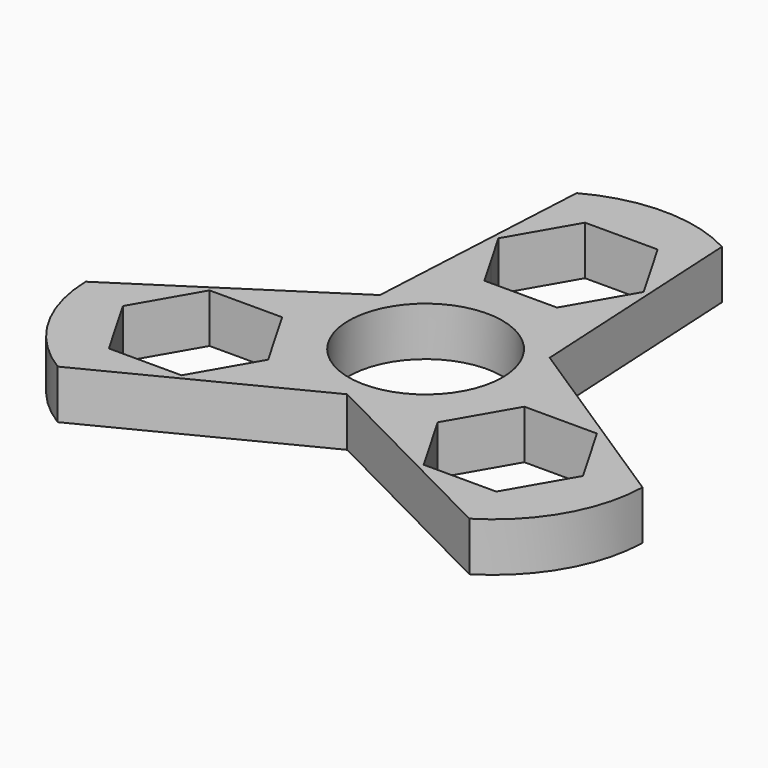
from build123d import *

# Parameters (mm, degrees)
F0_R     = 11
F1_DEPTH = 7


with BuildPart() as f1:
    # F0 (on Top) → F1 (new body)
    with BuildSketch(Plane.XY):
        with BuildLine():
            ThreePointArc((12.146510326, 6.9614859693), (13.5286944042, 3.6020032923), (14, 0))
            ThreePointArc((14, 0), (9.9151913879, -9.8837735578), (0.0444314655, -13.9999294943))
            Line((0.0444314655, -13.9999294943), (0, -14.0225305219))
            Line((0, -14.0225305219), (29.4492086404, -29.002508536))
            ThreePointArc((29.4492086404, -29.002508536), (36.9310318043, -21.3221411537), (39.8415134859, -11.002508536))
            Line((39.8415134859, -11.002508536), (12.1438676573, 7.0112652609))
            Line((12.1438676573, 7.0112652609), (12.146510326, 6.9614859693))
        make_face()
        Polygon((17.324482387, -4.0022945697), (27.7167872325, -4.0022945697), (32.9129396552, -13.0022945697), (27.7167872325, -22.0022945697), (17.324482387, -22.0022945697), (12.1283299643, -13.0022945697), align=None, mode=Mode.SUBTRACT)
        with BuildLine():
            ThreePointArc((12.1020788605, 7.038443525), (12.124355653, 7), (12.146510326, 6.9614859693))
            Line((12.146510326, 6.9614859693), (12.1438676573, 7.0112652609))
            Line((12.1438676573, 7.0112652609), (12.1020788605, 7.038443525))
        make_face()
        with BuildLine():
            Line((0, -14.0225305219), (0.0444314655, -13.9999294943))
            ThreePointArc((0.0444314655, -13.9999294943), (0, -14), (-0.0444314655, -13.9999294943))
            Line((-0.0444314655, -13.9999294943), (0, -14.0225305219))
        make_face()
        with BuildLine():
            ThreePointArc((-12.1020788605, 7.038443525), (0, 14), (12.1020788605, 7.038443525))
            Line((12.1020788605, 7.038443525), (12.1438676573, 7.0112652609))
            Line((12.1438676573, 7.0112652609), (10.3923048454, 40.005017072))
            ThreePointArc((10.3923048454, 40.005017072), (0, 42.6442823074), (-10.3923048454, 40.005017072))
            Line((-10.3923048454, 40.005017072), (-12.1438676573, 7.0112652609))
            Line((-12.1438676573, 7.0112652609), (-12.1020788605, 7.038443525))
        make_face()
        Polygon((-10.3923048454, 26.0045891395), (-5.1961524227, 35.0045891395), (-4.9319201503, 35.0045891395), (4.9319201503, 35.0045891395), (5.1961524227, 35.0045891395), (10.3923048454, 26.0045891395), (7.6836718934, 21.3130992475), (5.1961524227, 17.0045891395), (-5.1961524227, 17.0045891395), (-7.6836718934, 21.3130992475), align=None, mode=Mode.SUBTRACT)
        with BuildLine():
            Line((0, -14.0225305219), (-0.0444314655, -13.9999294943))
            ThreePointArc((-0.0444314655, -13.9999294943), (-12.124355653, -7), (-12.146510326, 6.9614859693))
            Line((-12.146510326, 6.9614859693), (-12.1438676573, 7.0112652609))
            Line((-12.1438676573, 7.0112652609), (-39.8415134859, -11.002508536))
            ThreePointArc((-39.8415134859, -11.002508536), (-36.9310318043, -21.3221411537), (-29.4492086404, -29.002508536))
            Line((-29.4492086404, -29.002508536), (0, -14.0225305219))
        make_face()
        Polygon((-12.1283299643, -13.0022945697), (-17.324482387, -22.0022945697), (-27.7167872325, -22.0022945697), (-32.9129396552, -13.0022945697), (-27.7167872325, -4.0022945697), (-17.324482387, -4.0022945697), align=None, mode=Mode.SUBTRACT)
        with BuildLine():
            ThreePointArc((-12.146510326, 6.9614859693), (-12.124355653, 7), (-12.1020788605, 7.038443525))
            Line((-12.1020788605, 7.038443525), (-12.1438676573, 7.0112652609))
            Line((-12.1438676573, 7.0112652609), (-12.146510326, 6.9614859693))
        make_face()
        with BuildLine():
            ThreePointArc((0.0444314655, -13.9999294943), (9.9151913879, -9.8837735578), (14, 0))
            ThreePointArc((14, 0), (13.5286944042, 3.6020032923), (12.146510326, 6.9614859693))
            ThreePointArc((12.146510326, 6.9614859693), (12.124355653, 7), (12.1020788605, 7.038443525))
            ThreePointArc((12.1020788605, 7.038443525), (0, 14), (-12.1020788605, 7.038443525))
            ThreePointArc((-12.1020788605, 7.038443525), (-12.124355653, 7), (-12.146510326, 6.9614859693))
            ThreePointArc((-12.146510326, 6.9614859693), (-12.124355653, -7), (-0.0444314655, -13.9999294943))
            ThreePointArc((-0.0444314655, -13.9999294943), (0, -14), (0.0444314655, -13.9999294943))
        make_face()
        Circle(F0_R, mode=Mode.SUBTRACT)
    extrude(amount=F1_DEPTH)


solid = f1.part
